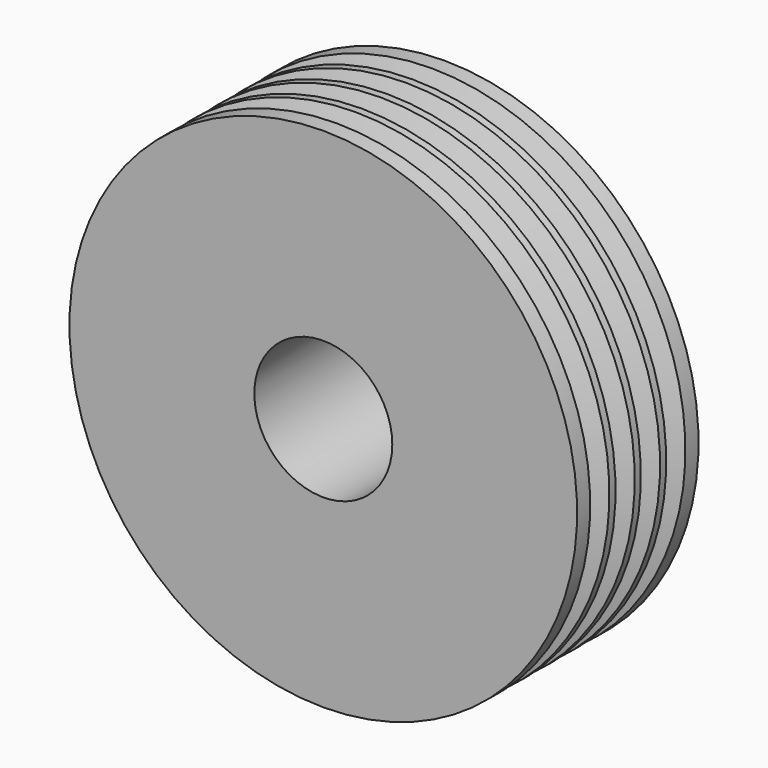
from build123d import *

# Parameters (mm, degrees)
F2_R     = 25
F3_DEPTH = 55.001


with BuildPart() as f1:
    # F0 (on Right) → F1 (revolve)
    with BuildSketch(Plane.YZ):
        Polygon((0, 92), (0, 0), (55, 0), (55, 92), (49.063487, 92), (45.713487, 83), (43.713487, 83), (40.363487, 92), (37.587829, 92), (34.237829, 83), (32.237829, 83), (28.887829, 92), (26.112171, 92), (22.762171, 83), (20.762171, 83), (17.412171, 92), (14.636513, 92), (11.286513, 83), (9.286513, 83), (5.936513, 92), align=None)
    revolve(axis=Axis((0, 27.5, 0), (0, 1, 0)))

    # F2 (on face) → F3 (cut, through all)
    with BuildSketch(Plane.XZ):
        Circle(F2_R)
    extrude(amount=-F3_DEPTH, mode=Mode.SUBTRACT)


solid = f1.part
